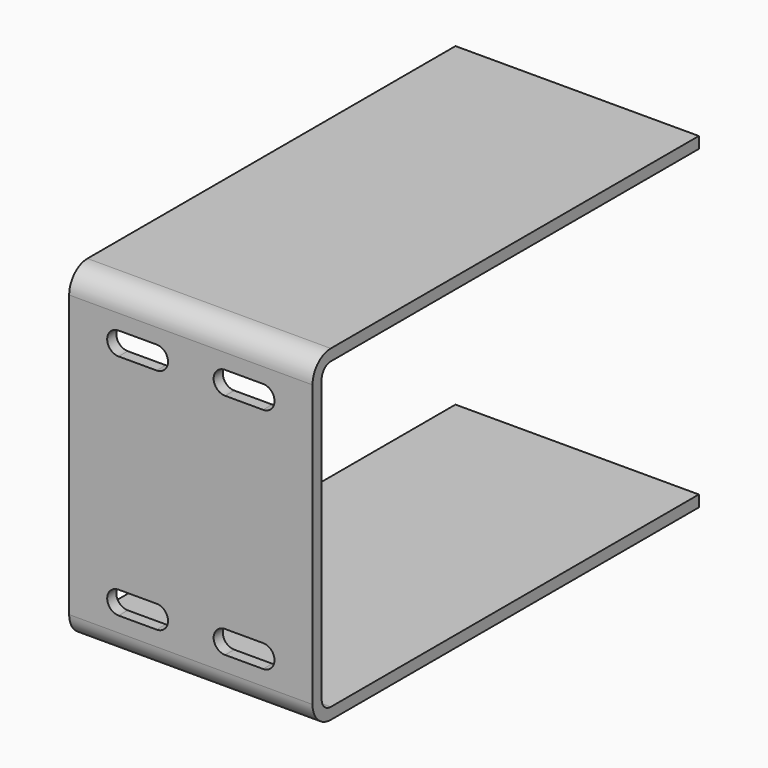
from build123d import *

# Parameters (mm, degrees)
F1_DEPTH = 64
F3_DEPTH = 3


with BuildPart() as f1:
    # F0 (on Right) → F1 (new body)
    with BuildSketch(Plane.YZ):
        with BuildLine():
            Line((0, 80), (0, 6))
            ThreePointArc((0, 6), (1.757359, 1.757359), (6, 0))
            Line((6, 0), (127, 0))
            Line((127, 0), (127, 3))
            Line((127, 3), (6, 3))
            ThreePointArc((6, 3), (3.87868, 3.87868), (3, 6))
            Line((3, 6), (3, 80))
            ThreePointArc((3, 80), (3.87868, 82.12132), (6, 83))
            Line((6, 83), (127, 83))
            Line((127, 83), (127, 86))
            Line((127, 86), (6, 86))
            ThreePointArc((6, 86), (1.757359, 84.242641), (0, 80))
        make_face()
    extrude(amount=F1_DEPTH)

    # F2 (on face) → F3 (cut, through all)
    with BuildSketch(Plane.XZ):
        with BuildLine():
            ThreePointArc((13, 76), (10, 73), (13, 70))
            Line((13, 70), (23, 70))
            ThreePointArc((23, 70), (26, 73), (23, 76))
            Line((23, 76), (13, 76))
        make_face()
        with BuildLine():
            Line((51, 76), (41, 76))
            ThreePointArc((41, 76), (38, 73), (41, 70))
            Line((41, 70), (51, 70))
            ThreePointArc((51, 70), (54, 73), (51, 76))
        make_face()
        with BuildLine():
            ThreePointArc((41, 16), (38, 13), (41, 10))
            Line((41, 10), (51, 10))
            ThreePointArc((51, 10), (54, 13), (51, 16))
            Line((51, 16), (41, 16))
        make_face()
        with BuildLine():
            Line((23, 16), (13, 16))
            ThreePointArc((13, 16), (10, 13), (13, 10))
            Line((13, 10), (23, 10))
            ThreePointArc((23, 10), (26, 13), (23, 16))
        make_face()
    extrude(amount=-F3_DEPTH, mode=Mode.SUBTRACT)


solid = f1.part
